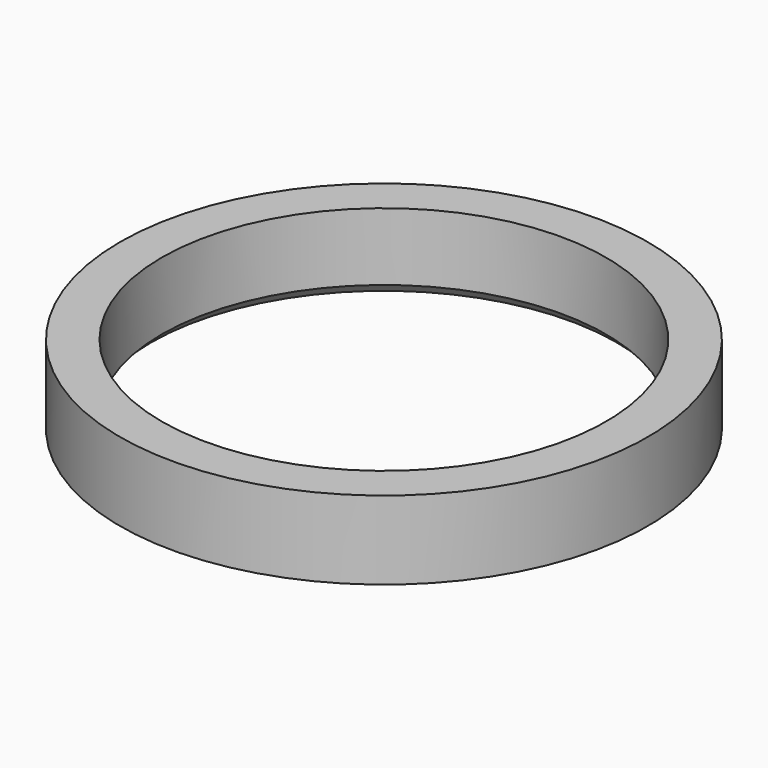
from build123d import *

# Parameters (mm, degrees)
F0_W    = 0.8
F0_H    = 1.5
F2_SIZE = 0.2064


with BuildPart() as f1:
    # F0 (on Front) → F1 (revolve)
    with BuildSketch(Plane.XZ):
        with Locations((-4.65, 0.75)):
            Rectangle(F0_W, F0_H)
    revolve(axis=Axis((0, 0, 2.520303), (0, 0, 1)))

    # F2
    f2_edges = [f1.edges().sort_by_distance(p)[0] for p in [
        (4.25, 0, 0),
    ]]
    chamfer(f2_edges, length=F2_SIZE)


solid = f1.part
